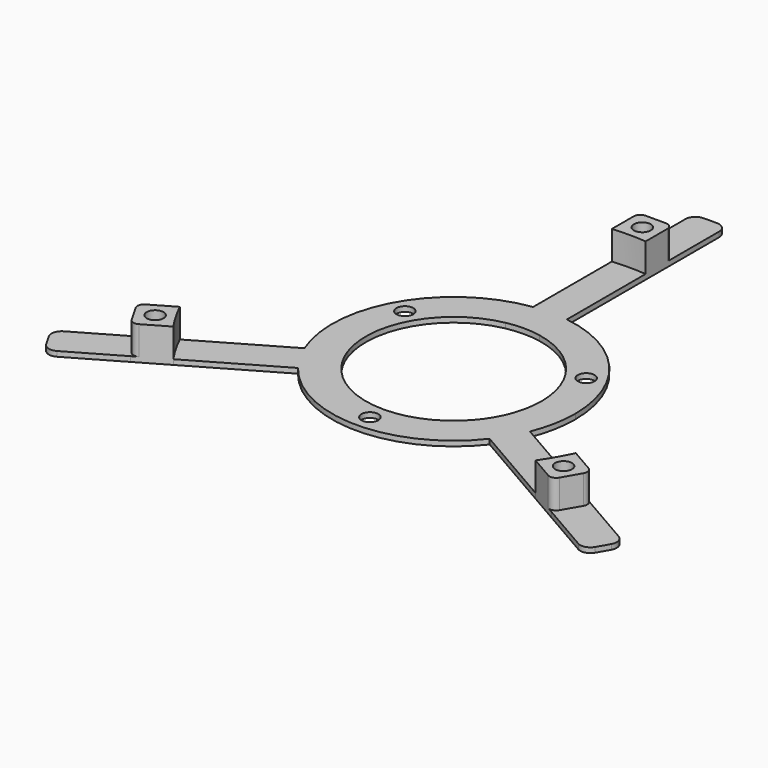
from build123d import *

# Parameters (mm, degrees)
F0_R     = 2.5
F1_DEPTH = 1.5
F2_DEPTH = 10
F3_R     = 2
F4_R     = 3
F5_DEPTH = 4.5


with BuildPart() as f1:
    # F0 (on Top) → F1 (new body)
    with BuildSketch(Plane.XY):
        with BuildLine():
            Line((84.6583836258, -43.1040378836), (67.3074069841, -33.0864468488))
            ThreePointArc((67.3074069841, -33.0864468488), (64.9519052838, -37.5), (62.3074069841, -41.7467008867))
            Line((62.3074069841, -41.7467008867), (79.6583836258, -51.7642919214))
            ThreePointArc((79.6583836258, -51.7642919214), (82.2724133595, -47.5), (84.6583836258, -43.1040378836))
        make_face()
        with BuildLine():
            ThreePointArc((62.3074069841, -41.7467008867), (64.9519052838, -37.5), (67.3074069841, -33.0864468488))
            Line((67.3074069841, -33.0864468488), (62.3074069841, -41.7467008867))
        make_face()
        with BuildLine():
            Line((67.3074069841, -33.0864468488), (58.6248608016, -28.0735764731))
            ThreePointArc((58.6248608016, -28.0735764731), (56.291651246, -32.5), (53.6248608016, -36.733830511))
            Line((53.6248608016, -36.733830511), (62.3074069841, -41.7467008867))
            Line((62.3074069841, -41.7467008867), (67.3074069841, -33.0864468488))
        make_face()
        Polygon((63.9661338928, -36.9308646221), (60.4661338928, -38.9515905642), (56.9661338928, -36.9308646221), (56.9661338928, -32.8894127377), (60.4661338928, -30.8686867956), (63.9661338928, -32.8894127377), align=None, mode=Mode.SUBTRACT)
        with BuildLine():
            Line((58.6248608016, -28.0735764731), (33.3747469625, -13.4954164511))
            ThreePointArc((33.3747469625, -13.4954164511), (31.1769145362, -18), (28.3747469625, -22.1556704889))
            Line((28.3747469625, -22.1556704889), (53.6248608016, -36.733830511))
            ThreePointArc((53.6248608016, -36.733830511), (56.291651246, -32.5), (58.6248608016, -28.0735764731))
        make_face()
        with BuildLine():
            Line((33.3747469625, -13.4954164511), (24.596379794, -8.4272238033))
            ThreePointArc((24.596379794, -8.4272238033), (22.5166604984, -13), (19.596379794, -17.0874778411))
            Line((19.596379794, -17.0874778411), (28.3747469625, -22.1556704889))
            ThreePointArc((28.3747469625, -22.1556704889), (31.1769145362, -18), (33.3747469625, -13.4954164511))
        make_face()
        with BuildLine():
            ThreePointArc((5, 25.5147016443), (20.0748598999, 16.5227116419), (26, 0))
            ThreePointArc((26, 0), (25.6466944716, -4.2716580713), (24.596379794, -8.4272238033))
            Line((24.596379794, -8.4272238033), (33.3747469625, -13.4954164511))
            ThreePointArc((33.3747469625, -13.4954164511), (35.3375925231, -6.8741948383), (36, 0))
            ThreePointArc((36, 0), (27.1661554144, 23.622023622), (5, 35.65108694))
            Line((5, 35.65108694), (5, 25.5147016443))
        make_face()
        with Locations((26.8467875173, 15.5)):
            Circle(F0_R, mode=Mode.SUBTRACT)
        with BuildLine():
            Line((28.3747469625, -22.1556704889), (19.596379794, -17.0874778411))
            ThreePointArc((19.596379794, -17.0874778411), (0, -26), (-19.596379794, -17.0874778411))
            Line((-19.596379794, -17.0874778411), (-28.3747469625, -22.1556704889))
            ThreePointArc((-28.3747469625, -22.1556704889), (0, -36), (28.3747469625, -22.1556704889))
        make_face()
        with Locations((0, -31)):
            Circle(F0_R, mode=Mode.SUBTRACT)
        with BuildLine():
            ThreePointArc((-28.3747469625, -22.1556704889), (-31.1769145362, -18), (-33.3747469625, -13.4954164511))
            Line((-33.3747469625, -13.4954164511), (-58.6248608016, -28.0735764731))
            ThreePointArc((-58.6248608016, -28.0735764731), (-56.291651246, -32.5), (-53.6248608016, -36.733830511))
            Line((-53.6248608016, -36.733830511), (-28.3747469625, -22.1556704889))
        make_face()
        with BuildLine():
            ThreePointArc((-19.596379794, -17.0874778411), (-22.5166604984, -13), (-24.596379794, -8.4272238033))
            Line((-24.596379794, -8.4272238033), (-33.3747469625, -13.4954164511))
            ThreePointArc((-33.3747469625, -13.4954164511), (-31.1769145362, -18), (-28.3747469625, -22.1556704889))
            Line((-28.3747469625, -22.1556704889), (-19.596379794, -17.0874778411))
        make_face()
        with BuildLine():
            ThreePointArc((-53.6248608016, -36.733830511), (-56.291651246, -32.5), (-58.6248608016, -28.0735764731))
            Line((-58.6248608016, -28.0735764731), (-67.3074069841, -33.0864468488))
            Line((-67.3074069841, -33.0864468488), (-62.3074069841, -41.7467008867))
            Line((-62.3074069841, -41.7467008867), (-53.6248608016, -36.733830511))
        make_face()
        Polygon((-63.9661338928, -32.8894127377), (-60.4661338928, -30.8686867956), (-56.9661338928, -32.8894127377), (-56.9661338928, -36.9308646221), (-60.4661338928, -38.9515905642), (-63.9661338928, -36.9308646221), align=None, mode=Mode.SUBTRACT)
        with BuildLine():
            Line((-62.3074069841, -41.7467008867), (-67.3074069841, -33.0864468488))
            ThreePointArc((-67.3074069841, -33.0864468488), (-64.9519052838, -37.5), (-62.3074069841, -41.7467008867))
        make_face()
        with BuildLine():
            ThreePointArc((-62.3074069841, -41.7467008867), (-64.9519052838, -37.5), (-67.3074069841, -33.0864468488))
            Line((-67.3074069841, -33.0864468488), (-84.6583836258, -43.1040378836))
            ThreePointArc((-84.6583836258, -43.1040378836), (-82.2724133595, -47.5), (-79.6583836258, -51.7642919214))
            Line((-79.6583836258, -51.7642919214), (-62.3074069841, -41.7467008867))
        make_face()
        with BuildLine():
            ThreePointArc((-24.596379794, -8.4272238033), (-22.5166604984, 13), (-5, 25.5147016443))
            Line((-5, 25.5147016443), (-5, 35.65108694))
            ThreePointArc((-5, 35.65108694), (-31.1769145362, 18), (-33.3747469625, -13.4954164511))
            Line((-33.3747469625, -13.4954164511), (-24.596379794, -8.4272238033))
        make_face()
        with Locations((-26.8467875173, 15.5)):
            Circle(F0_R, mode=Mode.SUBTRACT)
        with BuildLine():
            ThreePointArc((-5, 25.5147016443), (0, 26), (5, 25.5147016443))
            Line((5, 25.5147016443), (5, 35.65108694))
            ThreePointArc((5, 35.65108694), (0, 36), (-5, 35.65108694))
            Line((-5, 35.65108694), (-5, 25.5147016443))
        make_face()
        with BuildLine():
            ThreePointArc((-5, 35.65108694), (0, 36), (5, 35.65108694))
            Line((5, 35.65108694), (5, 64.8074069841))
            ThreePointArc((5, 64.8074069841), (0, 65), (-5, 64.8074069841))
            Line((-5, 64.8074069841), (-5, 35.65108694))
        make_face()
        with BuildLine():
            ThreePointArc((-5, 64.8074069841), (0, 65), (5, 64.8074069841))
            Line((5, 64.8074069841), (5, 74.8331477355))
            Line((5, 74.8331477355), (-5, 74.8331477355))
            Line((-5, 74.8331477355), (-5, 64.8074069841))
        make_face()
        Polygon((0, 73.8617292441), (3.5, 71.8410033019), (3.5, 67.7995514176), (0, 65.7788254755), (-3.5, 67.7995514176), (-3.5, 71.8410033019), align=None, mode=Mode.SUBTRACT)
        with BuildLine():
            Line((-5, 74.8331477355), (5, 74.8331477355))
            ThreePointArc((5, 74.8331477355), (0, 75), (-5, 74.8331477355))
        make_face()
        with BuildLine():
            ThreePointArc((-5, 74.8331477355), (0, 75), (5, 74.8331477355))
            Line((5, 74.8331477355), (5, 94.8683298051))
            ThreePointArc((5, 94.8683298051), (0, 95), (-5, 94.8683298051))
            Line((-5, 94.8683298051), (-5, 74.8331477355))
        make_face()
        Polygon((56.9661338928, -36.9308646221), (60.4661338928, -38.9515905642), (63.9661338928, -36.9308646221), (63.9661338928, -32.8894127377), (60.4661338928, -30.8686867956), (56.9661338928, -32.8894127377), align=None)
        with Locations((60.4661338928, -34.9101386799)):
            Circle(F0_R, mode=Mode.SUBTRACT)
        Polygon((3.5, 67.7995514176), (3.5, 71.8410033019), (0, 73.8617292441), (-3.5, 71.8410033019), (-3.5, 67.7995514176), (0, 65.7788254755), align=None)
        with Locations((0, 69.8202773598)):
            Circle(F0_R, mode=Mode.SUBTRACT)
        Polygon((-56.9661338928, -32.8894127377), (-60.4661338928, -30.8686867956), (-63.9661338928, -32.8894127377), (-63.9661338928, -36.9308646221), (-60.4661338928, -38.9515905642), (-56.9661338928, -36.9308646221), align=None)
        with Locations((-60.4661338928, -34.9101386799)):
            Circle(F0_R, mode=Mode.SUBTRACT)
    extrude(amount=F1_DEPTH)

    # F0 (on Top) → F2 (join)
    with BuildSketch(Plane.XY):
        with BuildLine():
            ThreePointArc((-53.6248608016, -36.733830511), (-56.291651246, -32.5), (-58.6248608016, -28.0735764731))
            Line((-58.6248608016, -28.0735764731), (-67.3074069841, -33.0864468488))
            Line((-67.3074069841, -33.0864468488), (-62.3074069841, -41.7467008867))
            Line((-62.3074069841, -41.7467008867), (-53.6248608016, -36.733830511))
        make_face()
        Polygon((-63.9661338928, -32.8894127377), (-60.4661338928, -30.8686867956), (-56.9661338928, -32.8894127377), (-56.9661338928, -36.9308646221), (-60.4661338928, -38.9515905642), (-63.9661338928, -36.9308646221), align=None, mode=Mode.SUBTRACT)
        with BuildLine():
            ThreePointArc((-5, 64.8074069841), (0, 65), (5, 64.8074069841))
            Line((5, 64.8074069841), (5, 74.8331477355))
            Line((5, 74.8331477355), (-5, 74.8331477355))
            Line((-5, 74.8331477355), (-5, 64.8074069841))
        make_face()
        Polygon((0, 73.8617292441), (3.5, 71.8410033019), (3.5, 67.7995514176), (0, 65.7788254755), (-3.5, 67.7995514176), (-3.5, 71.8410033019), align=None, mode=Mode.SUBTRACT)
        with BuildLine():
            Line((67.3074069841, -33.0864468488), (58.6248608016, -28.0735764731))
            ThreePointArc((58.6248608016, -28.0735764731), (56.291651246, -32.5), (53.6248608016, -36.733830511))
            Line((53.6248608016, -36.733830511), (62.3074069841, -41.7467008867))
            Line((62.3074069841, -41.7467008867), (67.3074069841, -33.0864468488))
        make_face()
        Polygon((63.9661338928, -36.9308646221), (60.4661338928, -38.9515905642), (56.9661338928, -36.9308646221), (56.9661338928, -32.8894127377), (60.4661338928, -30.8686867956), (63.9661338928, -32.8894127377), align=None, mode=Mode.SUBTRACT)
        Polygon((-56.9661338928, -32.8894127377), (-60.4661338928, -30.8686867956), (-63.9661338928, -32.8894127377), (-63.9661338928, -36.9308646221), (-60.4661338928, -38.9515905642), (-56.9661338928, -36.9308646221), align=None)
        with Locations((-60.4661338928, -34.9101386799)):
            Circle(F0_R, mode=Mode.SUBTRACT)
        Polygon((56.9661338928, -36.9308646221), (60.4661338928, -38.9515905642), (63.9661338928, -36.9308646221), (63.9661338928, -32.8894127377), (60.4661338928, -30.8686867956), (56.9661338928, -32.8894127377), align=None)
        with Locations((60.4661338928, -34.9101386799)):
            Circle(F0_R, mode=Mode.SUBTRACT)
        Polygon((3.5, 67.7995514176), (3.5, 71.8410033019), (0, 73.8617292441), (-3.5, 71.8410033019), (-3.5, 67.7995514176), (0, 65.7788254755), align=None)
        with Locations((0, 69.8202773598)):
            Circle(F0_R, mode=Mode.SUBTRACT)
    extrude(amount=F2_DEPTH)

    # F3
    f3_edges = [f1.edges().sort_by_distance(p)[0] for p in [
        (67.307407, -33.086447, 5.75),
        (62.307407, -41.746701, 5.75),
        (-62.307407, -41.746701, 5.75),
        (-67.307407, -33.086447, 5.75),
        (5, 74.833148, 5.75),
        (-5, 74.833148, 5.75),
    ]]
    fillet(f3_edges, radius=F3_R)

    # F4
    f4_edges = [f1.edges().sort_by_distance(p)[0] for p in [
        (84.658384, -43.104038, 0.75),
        (79.658384, -51.764292, 0.75),
        (-79.658384, -51.764292, 0.75),
        (-84.658384, -43.104038, 0.75),
        (-5, 94.86833, 0.75),
        (5, 94.86833, 0.75),
    ]]
    fillet(f4_edges, radius=F4_R)

    # F0 (on Top) → F5 (cut)
    with BuildSketch(Plane.XY):
        Polygon((56.9661338928, -36.9308646221), (60.4661338928, -38.9515905642), (63.9661338928, -36.9308646221), (63.9661338928, -32.8894127377), (60.4661338928, -30.8686867956), (56.9661338928, -32.8894127377), align=None)
        with Locations((60.4661338928, -34.9101386799)):
            Circle(F0_R, mode=Mode.SUBTRACT)
        Polygon((-56.9661338928, -32.8894127377), (-60.4661338928, -30.8686867956), (-63.9661338928, -32.8894127377), (-63.9661338928, -36.9308646221), (-60.4661338928, -38.9515905642), (-56.9661338928, -36.9308646221), align=None)
        with Locations((-60.4661338928, -34.9101386799)):
            Circle(F0_R, mode=Mode.SUBTRACT)
        Polygon((3.5, 67.7995514176), (3.5, 71.8410033019), (0, 73.8617292441), (-3.5, 71.8410033019), (-3.5, 67.7995514176), (0, 65.7788254755), align=None)
        with Locations((0, 69.8202773598)):
            Circle(F0_R, mode=Mode.SUBTRACT)
    extrude(amount=F5_DEPTH, mode=Mode.SUBTRACT)


solid = f1.part
